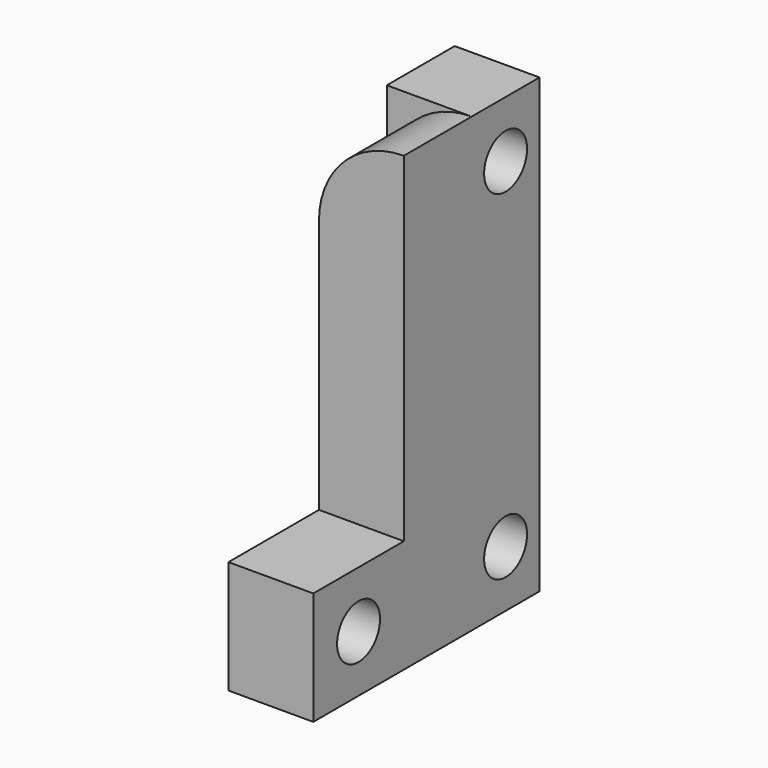
from build123d import *

# Parameters (mm, degrees)
SKETCH024_R  = 1.9
PAD015_DEPTH = 6
PAD016_DEPTH = 6


with BuildPart() as pad016:
    # Sketch024 → Pad015 (new body)
    with BuildSketch(Plane(origin=(-37, 0, 0), x_dir=(0, 1, 0), z_dir=(-1, 0, 0))):
        Polygon((46, 17), (40, 17), (40, 41), (26, 41), (26, 49), (46, 49), align=None)
        with Locations((43, 21)):
            Circle(SKETCH024_R, mode=Mode.SUBTRACT)
        with Locations((30, 45)):
            Circle(SKETCH024_R, mode=Mode.SUBTRACT)
        with Locations((43, 45)):
            Circle(SKETCH024_R, mode=Mode.SUBTRACT)
    extrude(amount=PAD015_DEPTH)

    # Sketch025 → Pad016 (new body)
    with BuildSketch(Plane(origin=(-37, 40, 0), x_dir=(0, 0, 1), z_dir=(0, -1, 0))):
        with BuildLine():
            Line((-41, 6), (-17, 6))
            ThreePointArc((-22.999973, 0), (-18.75735, 1.757369), (-17, 6))
            Line((-22.999973, 0), (-41, 0))
            Line((-41, 0), (-41, 6))
        make_face()
    extrude(amount=PAD016_DEPTH)


with BuildPart() as part_mirroring001:
    # Part__Mirroring001: instance of Pad016
    add(pad016.part.mirror(Plane(origin=(0, 0, 0), x_dir=(0, -1, 0), z_dir=(1, 0, 0))))


solid = part_mirroring001.part
